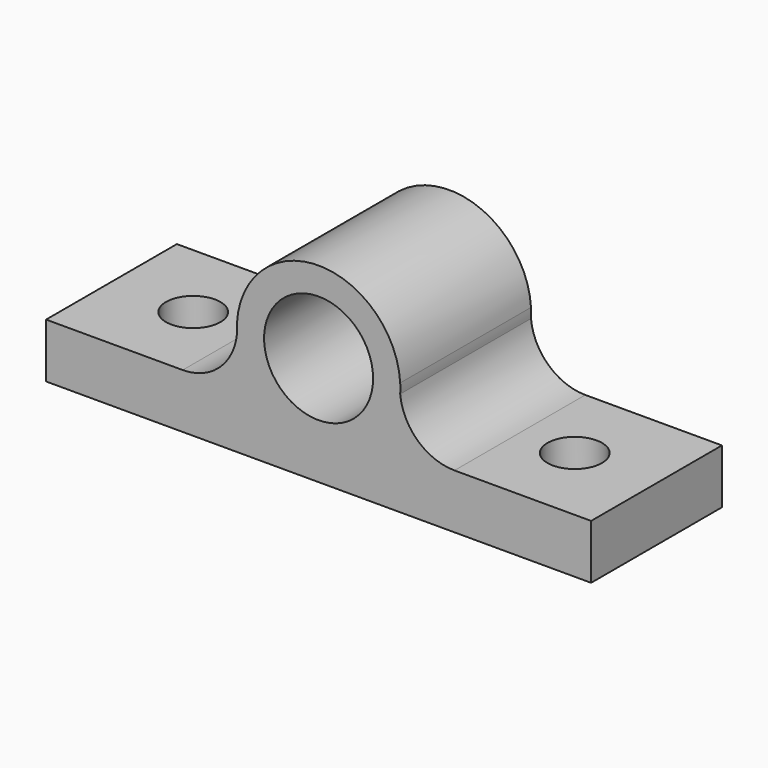
from build123d import *

# Parameters (mm, degrees)
F0_R     = 12.7
F1_DEPTH = 38.1
F2_R     = 6.35
F3_DEPTH = 12.701


with BuildPart() as f1:
    # F0 (on Front) → F1 (new body)
    with BuildSketch(Plane.XZ):
        with BuildLine():
            Line((-33.163997, 19.499587), (-64.999874, 19.499587))
            Line((-64.999874, 19.499587), (-64.999874, 6.799587))
            Line((-64.999874, 6.799587), (62.000126, 6.799587))
            Line((62.000126, 6.799587), (62.000126, 19.499587))
            Line((62.000126, 19.499587), (30.164248, 19.499587))
            ThreePointArc((30.164248, 19.499587), (21.597672, 22.823886), (17.515798, 31.056474))
            ThreePointArc((17.515798, 31.056474), (17.464248, 32.199587), (17.515798, 33.3427))
            ThreePointArc((17.515798, 33.3427), (-1.499874, 51.249587), (-20.515546, 33.3427))
            ThreePointArc((-20.515546, 33.3427), (-20.463997, 32.199587), (-20.515546, 31.056474))
            ThreePointArc((-20.515546, 31.056474), (-24.59742, 22.823886), (-33.163997, 19.499587))
        make_face()
        with Locations((-1.499874, 32.199587)):
            Circle(F0_R, mode=Mode.SUBTRACT)
        with BuildLine():
            ThreePointArc((-20.515546, 33.3427), (-20.549874, 32.199587), (-20.515546, 31.056474))
            ThreePointArc((-20.515546, 31.056474), (-20.463997, 32.199587), (-20.515546, 33.3427))
        make_face()
        with BuildLine():
            ThreePointArc((17.515798, 31.056474), (17.550126, 32.199587), (17.515798, 33.3427))
            ThreePointArc((17.515798, 33.3427), (17.464248, 32.199587), (17.515798, 31.056474))
        make_face()
    extrude(amount=F1_DEPTH)

    # F2 (on face) → F3 (cut, through all)
    with BuildSketch(Plane.XY.offset(19.499587)):
        with Locations((42.950126, -19.05)):
            Circle(F2_R)
        with Locations((-45.949874, -19.05)):
            Circle(F2_R)
    extrude(amount=-F3_DEPTH, mode=Mode.SUBTRACT)


solid = f1.part
